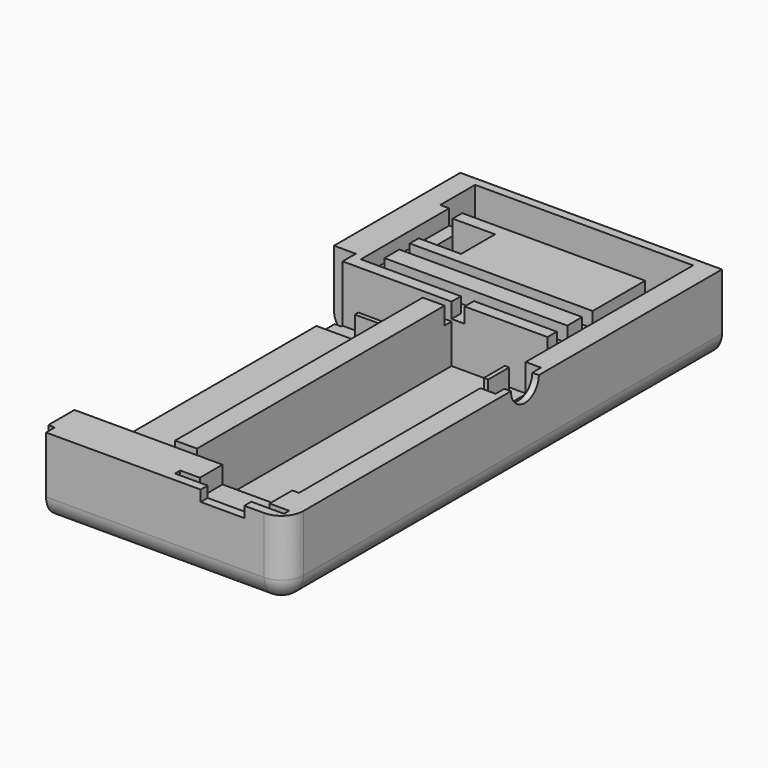
from build123d import *

# Parameters (mm, degrees)
F0_W      = 20
F0_H      = 75
F0_W_2    = 25
F1_DEPTH  = 13
F2_DEPTH  = 5
F3_R      = 4
F4_DEPTH  = 5
F5_W      = 3.5
F5_H      = 13
F6_DEPTH  = 6.5
F7_W      = 88.7834078074
F7_H      = 18
F8_DEPTH  = 5
F10_DEPTH = 5
F11_W     = 1.2834078074
F11_H     = 13
F12_DEPTH = 5
F13_W     = 3
F13_H     = 2.6685215533
F13_H_2   = 1.2419745326
F13_W_2   = 0.7530017495
F13_H_3   = 3
F14_DEPTH = 3.5
F15_W     = 5
F15_H     = 2
F16_DEPTH = 4
F17_W     = 15
F17_H     = 1
F18_DEPTH = 5
F19_R     = 5
F20_W     = 10
F20_H     = 2.5
F21_DEPTH = 10
F22_W     = 16
F22_H     = 4
F23_DEPTH = 8
F24_W     = 25
F24_H     = 1.5
F25_DEPTH = 4
F27_DEPTH = 3.5
F28_W     = 2
F28_H     = 6
F29_DEPTH = 13
F30_W     = 1
F30_H     = 6
F31_DEPTH = 6.5
F32_W     = 1.6611641645
F32_H     = 2.5
F33_DEPTH = 1.5
F35_DEPTH = 3.5
F36_DEPTH = 25
F37_W     = 50
F37_H     = 10
F38_DEPTH = 15
F39_R     = 5
F40_W     = 9.7111338079
F40_H     = 9.7418390214
F41_DEPTH = 10
F42_DEPTH = 3.5
F40_W_2   = 3
F40_H_2   = 15.0616638362
F43_DEPTH = 3.5
F44_W     = 60
F44_H     = 3
F45_DEPTH = 20


with BuildPart() as f1:
    # F0 (on Top) → F1 (new body)
    with BuildSketch(Plane.XY):
        Polygon((-26.3411931316, 47.0243954659), (-46.3411931316, 47.0243954659), (-46.3411931316, -52.9756045341), (13.6588068684, -52.9756045341), (13.6588068684, 47.0243954659), (-6.3411931316, 47.0243954659), align=None)
        with Locations((-31.3411931316, -5.4756045341)):
            Rectangle(F0_W, F0_H, mode=Mode.SUBTRACT)
        with Locations((-3.8411931316, -5.4756045341)):
            Rectangle(F0_W_2, F0_H, mode=Mode.SUBTRACT)
    extrude(amount=F1_DEPTH)

    # F0 (on Top) → F2 (join)
    with BuildSketch(Plane.XY):
        Polygon((-26.3411931316, 47.0243954659), (-46.3411931316, 47.0243954659), (-46.3411931316, -52.9756045341), (13.6588068684, -52.9756045341), (13.6588068684, 47.0243954659), (-6.3411931316, 47.0243954659), align=None)
        with Locations((-31.3411931316, -5.4756045341)):
            Rectangle(F0_W, F0_H, mode=Mode.SUBTRACT)
        with Locations((-3.8411931316, -5.4756045341)):
            Rectangle(F0_W_2, F0_H, mode=Mode.SUBTRACT)
        with Locations((-3.8411931316, -5.4756045341)):
            Rectangle(F0_W_2, F0_H)
        with Locations((-31.3411931316, -5.4756045341)):
            Rectangle(F0_W, F0_H)
    extrude(amount=-F2_DEPTH)

    # F3 (on face) → F4 (cut)
    with BuildSketch(Plane.YZ.offset(13.6588068684)):
        with Locations((15.5341364443, 13)):
            Circle(F3_R)
    extrude(amount=-F4_DEPTH, mode=Mode.SUBTRACT)

    # F5 (on face) → F6 (cut)
    with BuildSketch(Plane.XY.offset(13)):
        with Locations((10.4088068684, 15.5341364443)):
            Rectangle(F5_W, F5_H)
    extrude(amount=-F6_DEPTH, mode=Mode.SUBTRACT)

    # F7 (on face) → F8 (cut)
    with BuildSketch(Plane(origin=(-46.3411931316, 0, 0), x_dir=(0, -1, 0), z_dir=(-1, 0, 0))):
        with Locations((8.5839006305, 4)):
            Rectangle(F7_W, F7_H)
    extrude(amount=-F8_DEPTH, mode=Mode.SUBTRACT)

    # F9 (on face) → F10 (join)
    with BuildSketch(Plane(origin=(-41.3411931316, 0, 0), x_dir=(0, -1, 0), z_dir=(-1, 0, 0))):
        Polygon((-33.3078032732, 13), (-33.3078032732, -2.5), (50.4756045341, -2.5), (50.4756045341, 13), (42.9756045341, 13), (42.9756045341, 0), (-32.0243954659, 0), (-32.0243954659, 13), align=None)
    extrude(amount=F10_DEPTH)

    # F11 (on face) → F12 (cut)
    with BuildSketch(Plane(origin=(-46.3411931316, 0, 0), x_dir=(0, -1, 0), z_dir=(-1, 0, 0))):
        with Locations((-32.6660993695, 6.5)):
            Rectangle(F11_W, F11_H)
    extrude(amount=-F12_DEPTH, mode=Mode.SUBTRACT)

    # F13 (on face) → F14 (cut)
    with BuildSketch(Plane.XY.offset(13)):
        Polygon((5.6588068684, 32.0243954659), (8.6588068684, 32.0243954659), (8.6588068684, 42.0243954659), (5.6588068684, 42.0243954659), (5.6588068684, 37.6929170191), (5.6588068684, 34.6929170191), align=None)
        Polygon((-13.3411931316, 34.6929170191), (5.6588068684, 34.6929170191), (5.6588068684, 37.6929170191), (-36.2876081169, 37.6929170191), (-36.2876081169, 34.6929170191), (-16.3411931316, 34.6929170191), (-16.3411931316, 35.9348915517), (-13.3411931316, 35.9348915517), align=None)
        with Locations((-14.8411931316, 33.3586562425)):
            Rectangle(F13_W, F13_H)
        with Locations((-14.8411931316, 35.3139042854)):
            Rectangle(F13_W, F13_H_2)
        with Locations((-36.6641089916, 36.1929170191)):
            Rectangle(F13_W_2, F13_H_3)
        Polygon((-37.0406098664, 37.6929170191), (-36.2876081169, 37.6929170191), (-36.2876081169, 41.9627316296), (-39.2876081169, 41.9627316296), (-39.2876081169, 34.6929170191), (-37.0406098664, 34.6929170191), align=None)
    extrude(amount=-F14_DEPTH, mode=Mode.SUBTRACT)

    # F15 (on face) → F16 (cut)
    with BuildSketch(Plane.XY.offset(13)):
        with Locations((-18.8411931316, 31.0243954659)):
            Rectangle(F15_W, F15_H)
        with Locations((-18.8411931316, -41.9756045341)):
            Rectangle(F15_W, F15_H)
    extrude(amount=-F16_DEPTH, mode=Mode.SUBTRACT)

    # F17 (on face) → F18 (join)
    with BuildSketch(Plane.XY):
        with Locations((-28.8411931316, 29.7873775363)):
            Rectangle(F17_W, F17_H)
    extrude(amount=F18_DEPTH)

    # F19
    f19_edges = [f1.edges().sort_by_distance(p)[0] for p in [
        (13.658807, -2.975605, -5),
        (-13.841193, -52.975605, -5),
        (13.658807, -52.975605, 4),
        (-46.341193, 41.416099, -5),
    ]]
    fillet(f19_edges, radius=F19_R)

    # F20 (on face) → F21 (cut)
    with BuildSketch(Plane.XZ.offset(52.9756045341)):
        with Locations((-0.8757225672, 11.75)):
            Rectangle(F20_W, F20_H)
    extrude(amount=-F21_DEPTH, mode=Mode.SUBTRACT)

    # F22 (on face) → F23 (cut)
    with BuildSketch(Plane(origin=(0, -42.9756045341, 0), x_dir=(-1, 0, 0), z_dir=(0, 1, 0))):
        with Locations((0.8757225672, 11)):
            Rectangle(F22_W, F22_H)
    extrude(amount=-F23_DEPTH, mode=Mode.SUBTRACT)

    # F24 (on face) → F25 (cut)
    with BuildSketch(Plane.XY.offset(13)):
        with Locations((-0.8757225672, -50.2256045341)):
            Rectangle(F24_W, F24_H)
    extrude(amount=-F25_DEPTH, mode=Mode.SUBTRACT)

    # F26 (on face) → F27 (cut)
    with BuildSketch(Plane(origin=(-46.3411931316, 0, 0), x_dir=(0, -1, 0), z_dir=(-1, 0, 0))):
        Polygon((-33.3078032732, 0), (-33.3078032732, -2.5), (50.4756045341, -2.5), (50.4756045341, 13), (42.9756045341, 13), (42.9756045341, 0), align=None)
    extrude(amount=-F27_DEPTH, mode=Mode.SUBTRACT)

    # F28 (on face) → F29 (join)
    with BuildSketch(Plane.XY):
        with Locations((7.6588068684, 15.5341364443)):
            Rectangle(F28_W, F28_H)
    extrude(amount=F29_DEPTH)

    # F30 (on face) → F31 (cut)
    with BuildSketch(Plane.XY.offset(13)):
        with Locations((8.1588068684, 15.5341364443)):
            Rectangle(F30_W, F30_H)
    extrude(amount=-F31_DEPTH, mode=Mode.SUBTRACT)

    # F32 (on face) → F33 (cut)
    with BuildSketch(Plane(origin=(-42.8411931316, 0, 0), x_dir=(0, -1, 0), z_dir=(-1, 0, 0))):
        with Locations((-32.4772211909, -1.25)):
            Rectangle(F32_W, F32_H)
    extrude(amount=-F33_DEPTH, mode=Mode.SUBTRACT)

    # F34 (on face) → F35 (cut)
    with BuildSketch(Plane.XY.offset(13)):
        Polygon((-39.2876081169, 44.9627316296), (-39.2876081169, 41.9627316296), (-36.2876081169, 41.9627316296), (5.6588068684, 41.9627316296), (5.6588068684, 42.0243954659), (8.6588068684, 42.0243954659), (8.6588068684, 44.9627316296), align=None)
    extrude(amount=-F35_DEPTH, mode=Mode.SUBTRACT)

    # F36 (add): a face of the model
    f36_faces = [f1.faces().sort_by_distance(p)[0] for p in [
        (-16.3411931316, 47.0243954659, 4.07910728),
    ]]
    extrude(f36_faces, amount=F36_DEPTH)

    # F37 (on face) → F38 (cut)
    with BuildSketch(Plane.XY.offset(13)):
        with Locations((-16.3411931316, 65.0243954659)):
            Rectangle(F37_W, F37_H)
    extrude(amount=-F38_DEPTH, mode=Mode.SUBTRACT)

    # F39
    f39_edges = [f1.edges().sort_by_distance(p)[0] for p in [
        (8.658807, 65.024395, -2),
        (-41.341193, 65.024395, -2),
    ]]
    fillet(f39_edges, radius=F39_R)

    # F40 (on face) → F41 (cut)
    with BuildSketch(Plane.XY.offset(13)):
        with Locations((-31.4320412129, 52.4028521031)):
            Rectangle(F40_W, F40_H)
    extrude(amount=-F41_DEPTH, mode=Mode.SUBTRACT)

    # F40 (on face) → F42 (cut)
    with BuildSketch(Plane.XY.offset(13)):
        Polygon((-39.2876081169, 60.0243954659), (-39.2876081169, 44.9627316296), (-36.2876081169, 44.9627316296), (-36.2876081169, 47.5319325924), (-36.2876081169, 57.2737716138), (-36.2876081169, 60.0243954659), align=None)
    extrude(amount=-F42_DEPTH, mode=Mode.SUBTRACT)

    # F40 (on face) → F43 (cut)
    with BuildSketch(Plane.XY.offset(13)):
        with Locations((7.1588068684, 52.4935635477)):
            Rectangle(F40_W_2, F40_H_2)
    extrude(amount=-F43_DEPTH, mode=Mode.SUBTRACT)

    # F44 (on face) → F45 (join)
    with BuildSketch(Plane(origin=(-21.3411931316, 0, 0), x_dir=(0, -1, 0), z_dir=(-1, 0, 0))):
        with Locations((5.4616580904, 1.5)):
            Rectangle(F44_W, F44_H)
    extrude(amount=F45_DEPTH)


solid = f1.part
